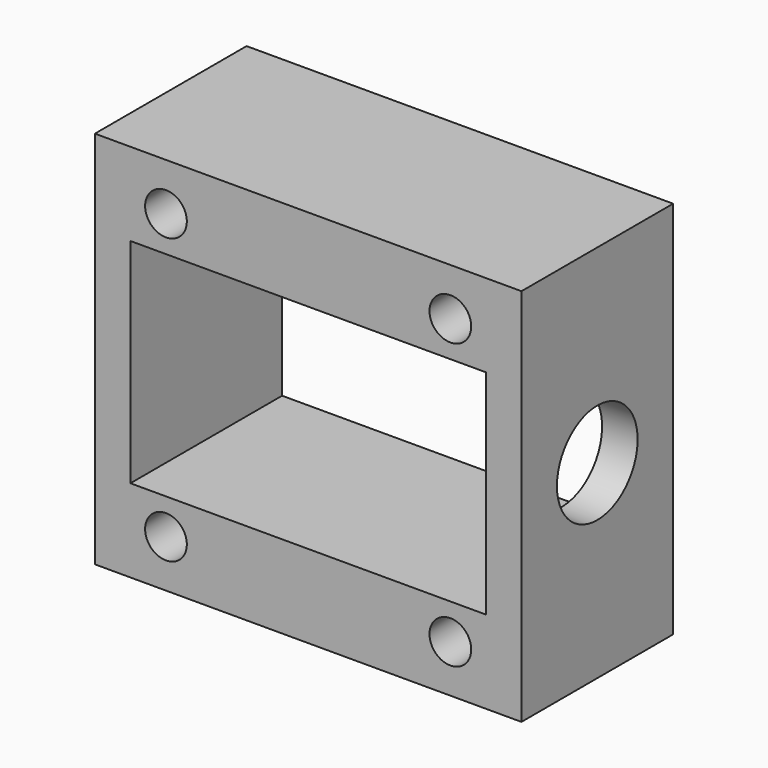
from build123d import *

# Parameters (mm, degrees)
F0_W     = 28.575
F0_H     = 25.4
F1_DEPTH = 12.7
F2_W     = 23.8125
F2_H     = 14.2875
F3_DEPTH = 12.701
F5_D     = 6.7564
F5_DEPTH = 3.96875
F5_TIP   = 2.0298273432
F7_D     = 2.794


with BuildPart() as f1:
    # F0 (on Front) → F1 (new body)
    with BuildSketch(Plane.XZ):
        Rectangle(F0_W, F0_H)
    extrude(amount=F1_DEPTH)

    # F2 (on face) → F3 (cut, through all)
    with BuildSketch(Plane.XZ.offset(12.7)):
        Rectangle(F2_W, F2_H)
    extrude(amount=-F3_DEPTH, mode=Mode.SUBTRACT)

    # F5
    with Locations(Plane.YZ.offset(14.2875)):
        with Locations((-6.35, 0)):
            Hole(F5_D / 2, depth=F5_DEPTH)
            with Locations((0, 0, -(F5_DEPTH + F5_TIP / 2))):  # 118° drill point
                Cone(0, F5_D / 2, F5_TIP, mode=Mode.SUBTRACT)

    # F7 (through all)
    with Locations(Plane.XZ.offset(12.7)):
        with Locations((-9.525, 9.525), (9.525, 9.525), (9.525, -9.525), (-9.525, -9.525)):
            Hole(F7_D / 2)


solid = f1.part
